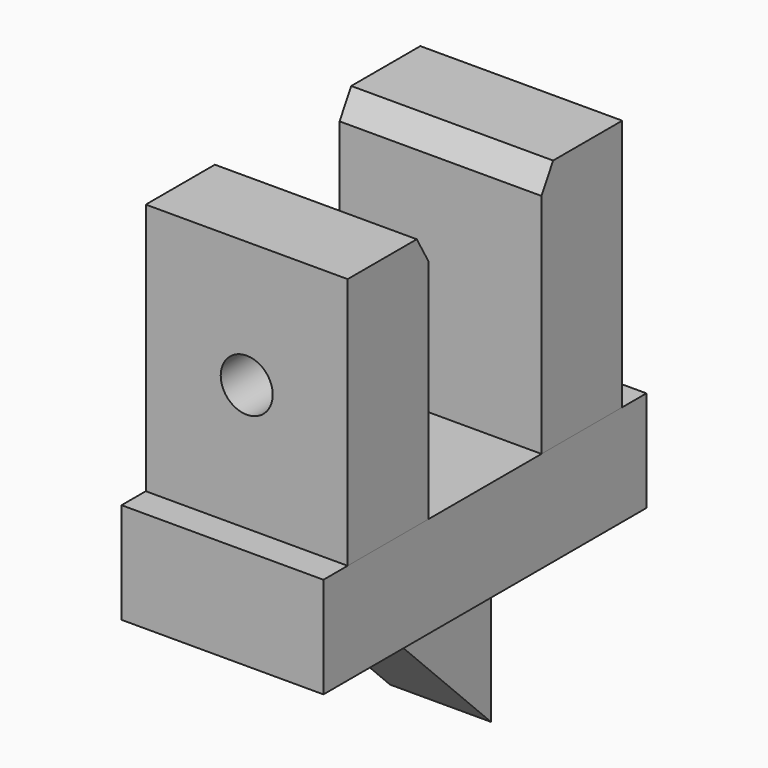
from build123d import *

# Parameters (mm, degrees)
F0_W     = 40
F0_H     = 80
F1_DEPTH = 20
F2_W     = 40
F2_H     = 20
F3_DEPTH = 50
F5_DEPTH = 10
F7_D     = 10.3
F7_DEPTH = 26.5
F7_TIP   = 3.094432188
F8_SIZE2 = 2.8867513459
F8_SIZE  = 5
F9_SIZE2 = 2.8867513459
F9_SIZE  = 5


with BuildPart() as f1:
    # F0 (on Top) → F1 (new body)
    with BuildSketch(Plane.XY):
        Rectangle(F0_W, F0_H)
    extrude(amount=F1_DEPTH)


with BuildPart() as f3:
    # F2 (on face) → F3 (new body)
    with BuildSketch(Plane.XY.offset(20)):
        with Locations((0, -24)):
            Rectangle(F2_W, F2_H)
    extrude(amount=F3_DEPTH)

    # F7
    with Locations(Plane.XZ.offset(34)):
        with Locations((0, 45)):
            Hole(F7_D / 2, depth=F7_DEPTH)
            with Locations((0, 0, -(F7_DEPTH + F7_TIP / 2))):  # 118° drill point
                Cone(0, F7_D / 2, F7_TIP, mode=Mode.SUBTRACT)

    # F9
    f9_edges = [f3.edges().sort_by_distance(p)[0] for p in [
        (0, -14, 70),
    ]]
    f9_side = f3.faces().sort_by_distance((19.359688, -14, 45))[0]
    chamfer(f9_edges, length=F9_SIZE, length2=F9_SIZE2, reference=f9_side)


with BuildPart() as f3b:
    # F2 (on face) → F3, piece 2 (new body)
    with BuildSketch(Plane.XY.offset(20)):
        with Locations((0, 24)):
            Rectangle(F2_W, F2_H)
    extrude(amount=F3_DEPTH)

    # F8
    f8_edges = [f3b.edges().sort_by_distance(p)[0] for p in [
        (0, 14, 70),
    ]]
    f8_side = f3b.faces().sort_by_distance((0, 14, 45))[0]
    chamfer(f8_edges, length=F8_SIZE, length2=F8_SIZE2, reference=f8_side)


with BuildPart() as f5:
    # F4 (on Right) → F5 (new body, symmetric)
    with BuildSketch(Plane.YZ):
        Polygon((14, -30), (14, 0), (-16, 0), align=None)
    extrude(amount=F5_DEPTH, both=True)


solid = Compound([f1.part, f3.part, f3b.part, f5.part])
